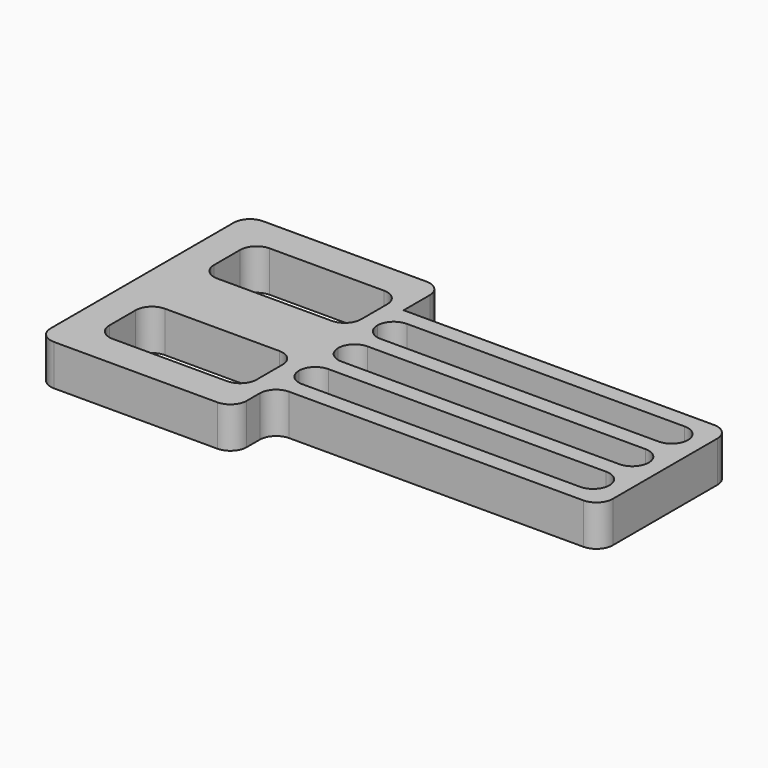
from build123d import *

# Parameters (mm, degrees)
F1_DEPTH = 25


with BuildPart() as f1:
    # F0 (on Top) → F1 (new body)
    with BuildSketch(Plane.XY):
        with BuildLine():
            Line((0, 104.567218), (-100, 104.567218))
            ThreePointArc((-100, 104.567218), (-107.071068, 101.638285), (-110, 94.567218))
            Line((-110, 94.567218), (-110, -45.432782))
            ThreePointArc((-110, -45.432782), (-107.071068, -52.50385), (-100, -55.432782))
            Line((-100, -55.432782), (0, -55.432782))
            ThreePointArc((0, -55.432782), (7.071068, -52.50385), (10, -45.432782))
            Line((10, -45.432782), (10, -35.432782))
            ThreePointArc((10, -35.432782), (12.928932, -28.361715), (20, -25.432782))
            Line((20, -25.432782), (200, -25.432782))
            ThreePointArc((200, -25.432782), (207.071068, -22.50385), (210, -15.432782))
            Line((210, -15.432782), (210, 64.567218))
            ThreePointArc((210, 64.567218), (207.071068, 71.638285), (200, 74.567218))
            Line((200, 74.567218), (10, 74.567218))
            Line((10, 74.567218), (10, 94.567218))
            ThreePointArc((10, 94.567218), (7.071068, 101.638285), (0, 104.567218))
        make_face()
        with BuildLine():
            Line((-80, 4.567218), (-10, 4.567218))
            ThreePointArc((-10, 4.567218), (-2.928932, 1.638285), (0, -5.432782))
            Line((0, -5.432782), (0, -25.432782))
            ThreePointArc((0, -25.432782), (-2.928932, -32.50385), (-10, -35.432782))
            Line((-10, -35.432782), (-80, -35.432782))
            ThreePointArc((-80, -35.432782), (-87.071068, -32.50385), (-90, -25.432782))
            Line((-90, -25.432782), (-90, -5.432782))
            ThreePointArc((-90, -5.432782), (-87.071068, 1.638285), (-80, 4.567218))
        make_face(mode=Mode.SUBTRACT)
        with BuildLine():
            ThreePointArc((200, -5.432782), (197.071068, -12.50385), (190, -15.432782))
            Line((190, -15.432782), (20, -15.432782))
            ThreePointArc((20, -15.432782), (12.928932, -12.50385), (10, -5.432782))
            ThreePointArc((10, -5.432782), (12.928932, 1.638285), (20, 4.567218))
            Line((20, 4.567218), (190, 4.567218))
            ThreePointArc((190, 4.567218), (197.071068, 1.638285), (200, -5.432782))
        make_face(mode=Mode.SUBTRACT)
        with BuildLine():
            Line((-80, 84.567218), (-10, 84.567218))
            ThreePointArc((-10, 84.567218), (-2.928932, 81.638285), (0, 74.567218))
            Line((0, 74.567218), (0, 54.567218))
            ThreePointArc((0, 54.567218), (-2.928932, 47.49615), (-10, 44.567218))
            Line((-10, 44.567218), (-80, 44.567218))
            ThreePointArc((-80, 44.567218), (-87.071068, 47.49615), (-90, 54.567218))
            Line((-90, 54.567218), (-90, 74.567218))
            ThreePointArc((-90, 74.567218), (-87.071068, 81.638285), (-80, 84.567218))
        make_face(mode=Mode.SUBTRACT)
        with BuildLine():
            ThreePointArc((200, 24.567218), (197.071068, 17.49615), (190, 14.567218))
            Line((190, 14.567218), (20, 14.567218))
            ThreePointArc((20, 14.567218), (12.928932, 17.49615), (10, 24.567218))
            ThreePointArc((10, 24.567218), (12.928932, 31.638285), (20, 34.567218))
            Line((20, 34.567218), (190, 34.567218))
            ThreePointArc((190, 34.567218), (197.071068, 31.638285), (200, 24.567218))
        make_face(mode=Mode.SUBTRACT)
        with BuildLine():
            ThreePointArc((200, 54.567218), (197.071068, 47.49615), (190, 44.567218))
            Line((190, 44.567218), (20, 44.567218))
            ThreePointArc((20, 44.567218), (12.928932, 47.49615), (10, 54.567218))
            ThreePointArc((10, 54.567218), (12.928932, 61.638285), (20, 64.567218))
            Line((20, 64.567218), (190, 64.567218))
            ThreePointArc((190, 64.567218), (197.071068, 61.638285), (200, 54.567218))
        make_face(mode=Mode.SUBTRACT)
    extrude(amount=F1_DEPTH)


solid = f1.part
